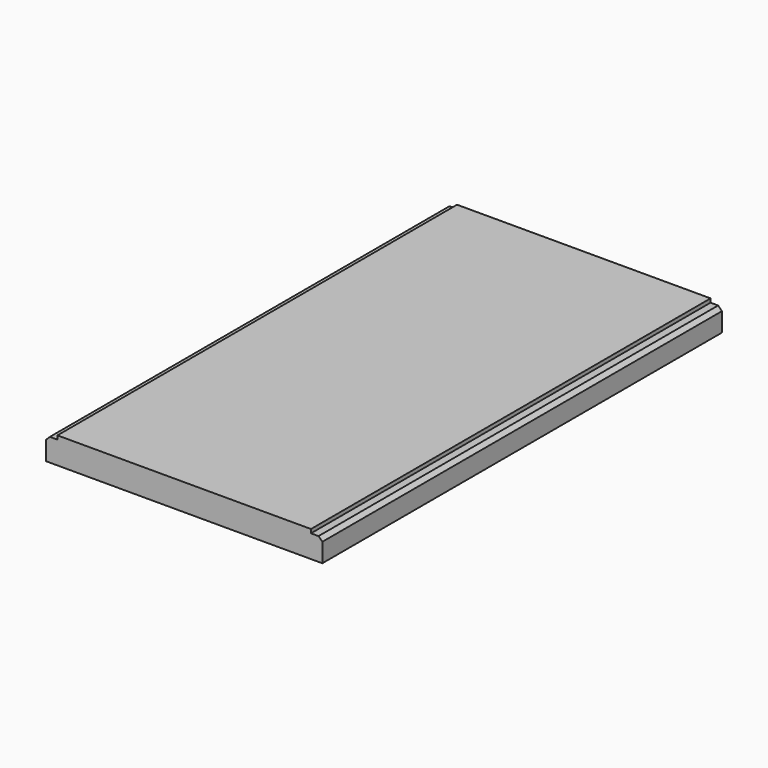
from build123d import *

# Parameters (mm, degrees)
F1_DEPTH = 132
F4_T     = -2


with BuildPart() as f1:
    # F0 (on Front) → F1 (new body)
    with BuildSketch(Plane.XZ):
        Polygon((-39.8409090909, -5.0908953616), (27.1590909091, -5.0908953616), (30.1590909091, -5.0908953616), (30.1590909091, -0.0908953616), (29.1590909091, 0.9091046384), (27.1590909091, 0.9091046384), (27.1590909091, 1.9091046384), (-39.8410601137, 1.909104627), (-39.8409090909, 0.9091046384), (-41.8409090909, 0.9088025928), (-42.8409090909, -0.0908953616), (-42.8409090909, -5.0908953616), align=None)
    extrude(amount=F1_DEPTH)


with BuildPart() as f1_1:
    # F2: moved
    add(f1.part.moved(Location((0, 0, 8))))


with BuildPart() as f1_2:
    # F3: moved
    add(f1_1.part.moved(Location((0, 70, 0))))

    # F4 (hollow: no face is removed)
    offset(amount=F4_T, kind=Kind.INTERSECTION, mode=Mode.SUBTRACT)


solid = f1_2.part
